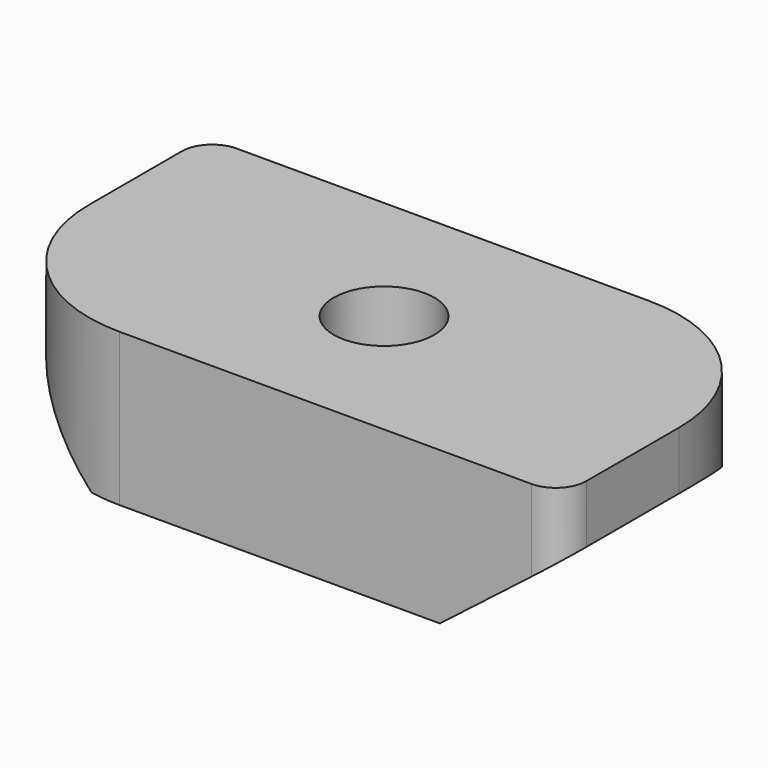
from build123d import *

# Parameters (mm, degrees)
F0_W          = 19.5
F0_H          = 9.8
F1_DEPTH      = 5
F3_D          = 3.3
F4_R          = 5
F5_R          = 1
F7_DEPTH      = 4.901
F7_DEPTH_BACK = 4.901


with BuildPart() as f1:
    # F0 (on Top) → F1 (new body)
    with BuildSketch(Plane.XY):
        Rectangle(F0_W, F0_H)
    extrude(amount=F1_DEPTH)

    # F3 (through all)
    with Locations(Plane.XY.offset(5)):
        with Locations((0, 0)):
            Hole(F3_D / 2)

    # F4
    f4_edges = [f1.edges().sort_by_distance(p)[0] for p in [
        (-9.75, -4.9, 2.5),
        (9.75, 4.9, 2.5),
    ]]
    fillet(f4_edges, radius=F4_R)

    # F5
    f5_edges = [f1.edges().sort_by_distance(p)[0] for p in [
        (-9.75, 4.9, 2.5),
        (9.75, -4.9, 2.5),
    ]]
    fillet(f5_edges, radius=F5_R)

    # F6 (on Front) → F7 (cut, two sides)
    with BuildSketch(Plane.XZ) as f7_sk:
        Polygon((9.75, 3.1), (5.75, 0), (9.75, 0), align=None)
        Polygon((-9.75, 3.1), (-9.75, 0), (-5.75, 0), align=None)
    extrude(amount=-F7_DEPTH, mode=Mode.SUBTRACT)
    extrude(f7_sk.sketch, amount=F7_DEPTH_BACK, mode=Mode.SUBTRACT)


solid = f1.part
